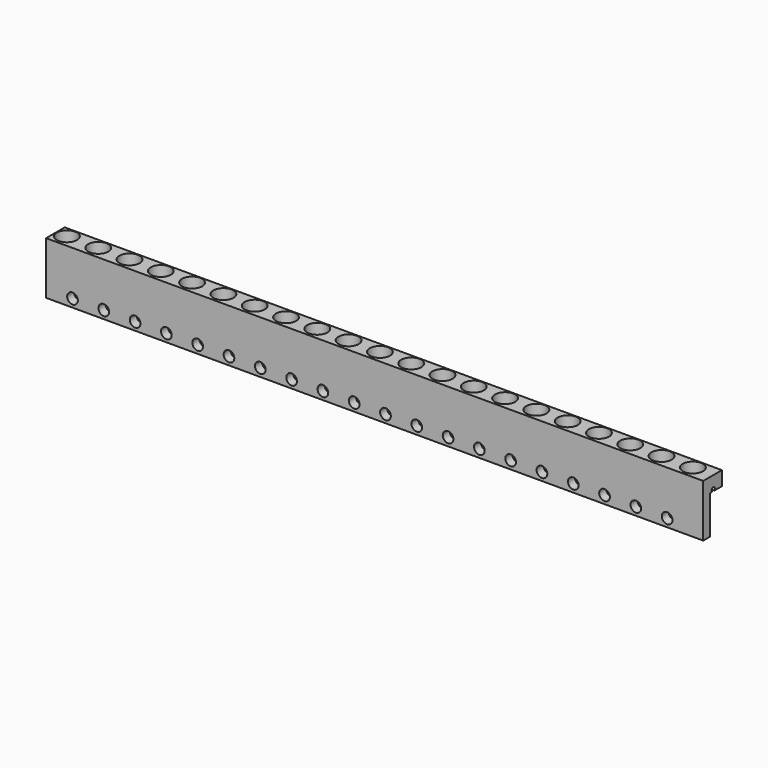
from build123d import *

# Parameters (mm, degrees)
F1_DEPTH = 200
F2_R     = 3.075
F3_DEPTH = 11.1
F4_R     = 0.635
F5_DEPTH = 200.001
F6_R     = 1.625
F7_DEPTH = 2.6426


with BuildPart() as f1:
    # F0 (on Right) → F1 (new body)
    with BuildSketch(Plane.YZ):
        Polygon((0, 16.002), (0, 0), (2.6416, 0), (2.6416, 11.684), (7.112, 11.684), (7.112, 16.002), align=None)
    extrude(amount=F1_DEPTH)

    # F2 (on face) → F3 (cut)
    with BuildSketch(Plane.XY.offset(16.002)):
        with Locations((3.28, 3.832)):
            Circle(F2_R)
        with Locations((12.805, 3.832)):
            Circle(F2_R)
        with Locations((22.33, 3.832)):
            Circle(F2_R)
        with Locations((31.855, 3.832)):
            Circle(F2_R)
        with Locations((41.38, 3.832)):
            Circle(F2_R)
        with Locations((50.905, 3.832)):
            Circle(F2_R)
        with Locations((60.43, 3.832)):
            Circle(F2_R)
        with Locations((69.955, 3.832)):
            Circle(F2_R)
        with Locations((79.48, 3.832)):
            Circle(F2_R)
        with Locations((89.005, 3.832)):
            Circle(F2_R)
        with Locations((98.53, 3.832)):
            Circle(F2_R)
        with Locations((108.055, 3.832)):
            Circle(F2_R)
        with Locations((117.58, 3.832)):
            Circle(F2_R)
        with Locations((127.105, 3.832)):
            Circle(F2_R)
        with Locations((136.63, 3.832)):
            Circle(F2_R)
        with Locations((146.155, 3.832)):
            Circle(F2_R)
        with Locations((155.68, 3.832)):
            Circle(F2_R)
        with Locations((165.205, 3.832)):
            Circle(F2_R)
        with Locations((174.73, 3.832)):
            Circle(F2_R)
        with Locations((184.255, 3.832)):
            Circle(F2_R)
        with Locations((193.78, 3.832)):
            Circle(F2_R)
    extrude(amount=-F3_DEPTH, mode=Mode.SUBTRACT)

    # F4 (on face) → F5 (cut, through all)
    with BuildSketch(Plane.YZ.offset(200)):
        with Locations((3.832, 12.184)):
            Circle(F4_R)
    extrude(amount=-F5_DEPTH, mode=Mode.SUBTRACT)

    # F6 (on face) → F7 (cut, through all)
    with BuildSketch(Plane(origin=(0, 2.6416, 0), x_dir=(-1, 0, 0), z_dir=(0, 1, 0))):
        with Locations((-189.0175, 2.451)):
            Circle(F6_R)
        with Locations((-179.4925, 2.451)):
            Circle(F6_R)
        with Locations((-169.9675, 2.451)):
            Circle(F6_R)
        with Locations((-160.4425, 2.451)):
            Circle(F6_R)
        with Locations((-150.9175, 2.451)):
            Circle(F6_R)
        with Locations((-141.3925, 2.451)):
            Circle(F6_R)
        with Locations((-131.8675, 2.451)):
            Circle(F6_R)
        with Locations((-122.3425, 2.451)):
            Circle(F6_R)
        with Locations((-112.8175, 2.451)):
            Circle(F6_R)
        with Locations((-103.2925, 2.451)):
            Circle(F6_R)
        with Locations((-93.7675, 2.451)):
            Circle(F6_R)
        with Locations((-84.2425, 2.451)):
            Circle(F6_R)
        with Locations((-74.7175, 2.451)):
            Circle(F6_R)
        with Locations((-65.1925, 2.451)):
            Circle(F6_R)
        with Locations((-55.6675, 2.451)):
            Circle(F6_R)
        with Locations((-46.1425, 2.451)):
            Circle(F6_R)
        with Locations((-36.6175, 2.451)):
            Circle(F6_R)
        with Locations((-27.0925, 2.451)):
            Circle(F6_R)
        with Locations((-17.5675, 2.451)):
            Circle(F6_R)
        with Locations((-8.0425, 2.451)):
            Circle(F6_R)
    extrude(amount=-F7_DEPTH, mode=Mode.SUBTRACT)


solid = f1.part
